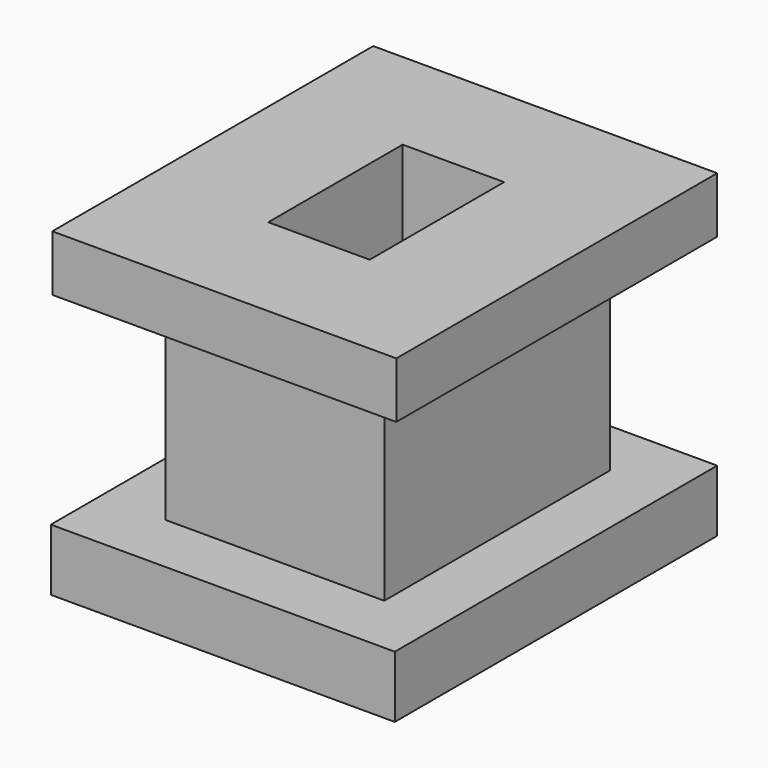
from build123d import *

# Parameters (mm, degrees)
F0_W     = 30.7351611555
F0_H     = 5.5238311179
F1_DEPTH = 36
F3_DEPTH = 18
F4_W     = 30.7351611555
F4_H     = 35.8340851963
F4_W_2   = 9.0647470206
F4_H_2   = 15.0134908035
F5_DEPTH = 5


with BuildPart() as f1:
    # F0 (on Front) → F1 (new body)
    with BuildSketch(Plane.XZ):
        with Locations((15.3675805777, 2.7619155589)):
            Rectangle(F0_W, F0_H)
    extrude(amount=F1_DEPTH)

    # F2 (on face) → F3 (join)
    with BuildSketch(Plane.XY.offset(5.5238311179)):
        Polygon((25.3529716283, -30.4518900812), (25.3529716283, -18), (25.3529716283, -5.2405577153), (5.8071063831, -5.2405577153), (5.8071063831, -30.4518900812), align=None)
        Polygon((19.9707727879, -25.3529697657), (15.5800390057, -25.3529697657), (10.9060257673, -25.3529697657), (10.9060257673, -10.3394789621), (19.9707727879, -10.3394789621), align=None, mode=Mode.SUBTRACT)
    extrude(amount=F3_DEPTH)

    # F4 (on face) → F5 (join)
    with BuildSketch(Plane.XY.offset(23.5238311179)):
        with Locations((15.3675805777, -17.9170425981)):
            Rectangle(F4_W, F4_H)
        with Locations((15.4383992776, -17.8462243639)):
            Rectangle(F4_W_2, F4_H_2, mode=Mode.SUBTRACT)
    extrude(amount=F5_DEPTH)


solid = f1.part
